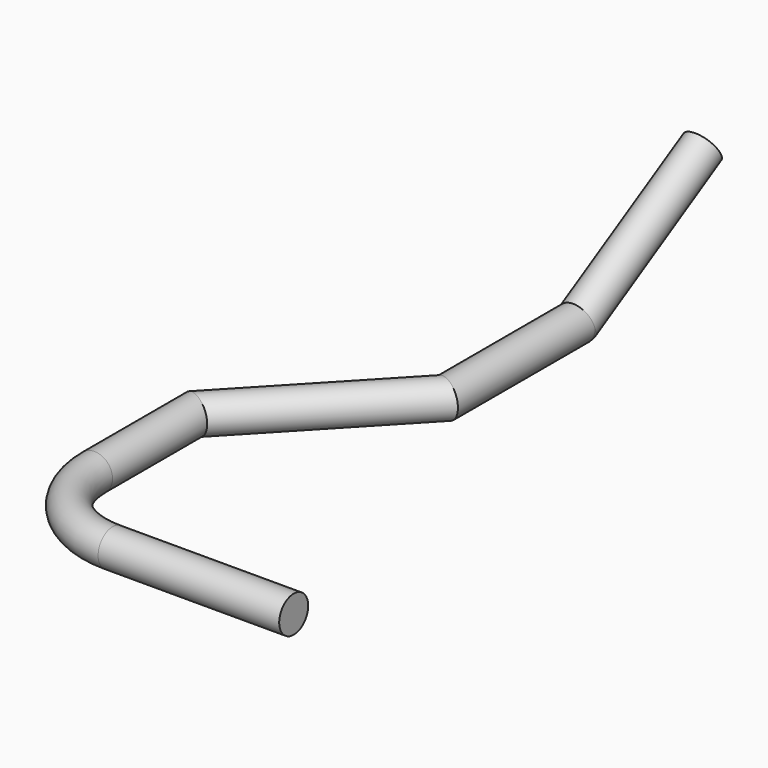
from build123d import *

# Parameters (mm, degrees)
F1_R     = 1
F5_R     = 1
F9_ANGLE = 30


with BuildPart() as f2:
    # F2: sweep along a path in F0
    with BuildLine(Plane.XY) as f2_path:
        Line((0, 0), (0, -9.0658888221))
        Line((0, -9.0658888221), (-7.5, -16.9975012541))
        Line((-7.5, -16.9975012541), (-7.5, -23.9220938832))
        ThreePointArc((-7.5, -23.9220938832), (-6.0355339059, -27.4576277891), (-2.5, -28.9220938832))
        Line((-2.5, -28.9220938832), (7.5, -28.9220938832))
    # F1 (on Front) → F2 (sweep)
    with BuildSketch(Plane.XZ):
        Circle(F1_R)
    sweep(path=f2_path.line, transition=Transition.RIGHT)

    # F8: sweep along a path in F7
    with BuildLine(Plane.YZ) as f8_path:
        Line((0, 0), (8.6602540378, 5))
    # F5 (on line) → F8 (sweep)
    with BuildSketch(Plane(origin=(0, 0, 0), x_dir=(-1, 0, 0), z_dir=(0, 0.8660254038, 0.5))):
        Circle(F5_R)
    sweep(path=f8_path.line)

    # F3 (on face) → F9 (revolve)
    with BuildSketch(Plane(origin=(0, 0, 0), x_dir=(-1, 0, 0), z_dir=(0, 1, 0))):
        with BuildLine():
            ThreePointArc((-1, 0), (0, -1), (1, 0))
            Line((1, 0), (-1, 0))
        make_face()
    revolve(axis=Axis((0, 0, 0), (1, 0, 0)), revolution_arc=F9_ANGLE)


solid = f2.part
